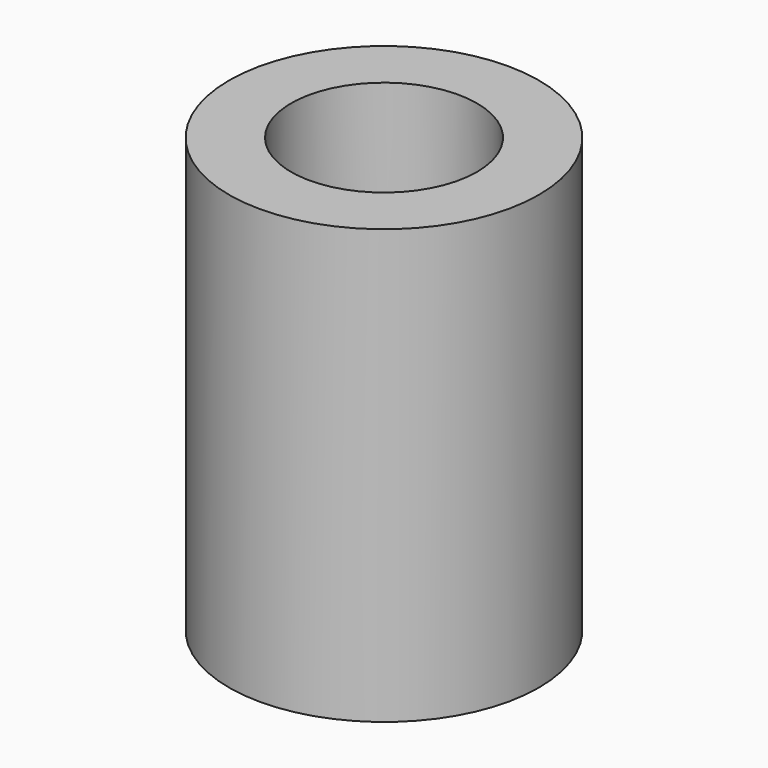
from build123d import *

# Parameters (mm, degrees)
F0_R     = 50
F1_DEPTH = 70
F2_R     = 10
F3_DEPTH = 120
F2_R_2   = 30
F4_DEPTH = 40


with BuildPart() as f1:
    # F0 (on Top) → F1 (new body, symmetric)
    with BuildSketch(Plane.XY):
        Circle(F0_R)
    extrude(amount=F1_DEPTH, both=True)

    # F2 (on face) → F3 (cut)
    with BuildSketch(Plane.XY.offset(70)):
        Circle(F2_R)
    extrude(amount=-F3_DEPTH, mode=Mode.SUBTRACT)

    # F2 (on face) → F4 (cut)
    with BuildSketch(Plane.XY.offset(70)):
        Circle(F2_R_2)
        Circle(F2_R, mode=Mode.SUBTRACT)
    extrude(amount=-F4_DEPTH, mode=Mode.SUBTRACT)


solid = f1.part
